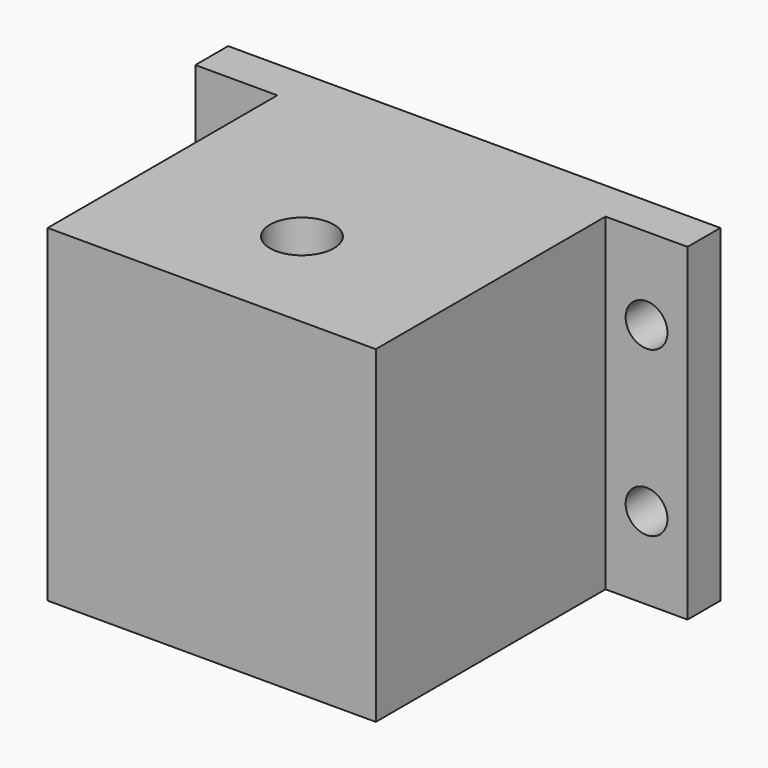
from build123d import *

# Parameters (mm, degrees)
F1_DEPTH = 50.8
F2_R     = 4.953
F3_DEPTH = 50.8
F5_R     = 3.2385
F4_R     = 3.2385
F6_DEPTH = 25.4


with BuildPart() as f1:
    # F0 (on Top) → F1 (new body)
    with BuildSketch(Plane.XY):
        Polygon((0, -6.35), (0, 0), (-76.2, 0), (-76.2, -6.35), (-63.5, -6.35), (-63.5, -50.8), (-12.7, -50.8), (-12.7, -6.35), align=None)
    extrude(amount=F1_DEPTH)

    # F2 (on face) → F3 (cut)
    with BuildSketch(Plane.XY.offset(50.8)):
        with Locations((-38.1, -33.3375)):
            Circle(F2_R)
    extrude(amount=-F3_DEPTH, mode=Mode.SUBTRACT)

    # F5 (on face) + F4 (on face) → F6 (cut)
    with BuildSketch(Plane.XZ.offset(6.35)):
        with Locations((-69.85, 12.7)):
            Circle(F5_R)
        with Locations((-69.85, 38.1)):
            Circle(F5_R)
    with BuildSketch(Plane.XZ.offset(6.35)):
        with Locations((-6.35, 12.7)):
            Circle(F4_R)
        with Locations((-6.35, 38.1)):
            Circle(F4_R)
    extrude(amount=-F6_DEPTH, mode=Mode.SUBTRACT)


solid = f1.part
